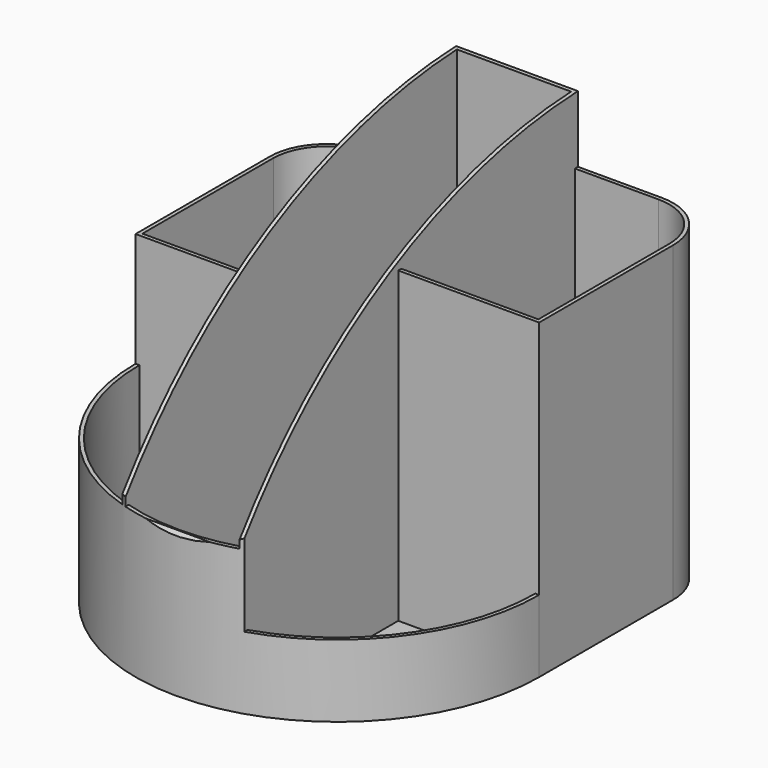
from build123d import *

# Parameters (mm, degrees)
PAD_DEPTH       = 99.5
POCKET_DEPTH    = 106.001
POCKET001_DEPTH = 105
POCKET002_DEPTH = 37
POCKET003_DEPTH = 37
SKETCH005_W     = 30
SKETCH005_H     = 16.444138
POCKET004_DEPTH = 149


with BuildPart() as part:
    # Sketch → Pad (new body)
    with BuildSketch(Plane.XY):
        with BuildLine():
            Line((-53, 15), (-53, -29))
            ThreePointArc((-53, -29), (0, -82), (53, -29))
            Line((53, 15), (53, -29))
            ThreePointArc((53, 15), (48.606602, 25.606602), (38, 30))
            Line((-38, 30), (38, 30))
            ThreePointArc((-38, 30), (-48.606602, 25.606602), (-53, 15))
        make_face()
    extrude(amount=PAD_DEPTH)

    # Sketch001 (on DatumPlane) → Pocket (cut, through all)
    with BuildSketch(Plane.YZ.offset(53)):
        with BuildLine():
            ThreePointArc((30, 99.5), (-33.496233, 81.683249), (-82, 37))
            Line((-82, 37), (-89.555687, 37))
            Line((-89.555687, 106.401093), (-89.555687, 37))
            Line((30, 106.401093), (-89.555687, 106.401093))
            Line((30, 99.5), (30, 106.401093))
        make_face()
    extrude(amount=-POCKET_DEPTH, mode=Mode.SUBTRACT)

    # Sketch002 (on DatumPlane) → Pocket001 (cut)
    with BuildSketch(Plane.XY.offset(106)):
        with BuildLine():
            Line((-52, -29), (-16, -29))
            Line((-16, -29), (-16, -78.477268))
            ThreePointArc((-52, -29), (-42.047592, -59.594117), (-16, -78.477268))
        make_face()
        with BuildLine():
            Line((-15, 29), (15, 29))
            Line((15, 29), (15, -78.789557))
            ThreePointArc((-15, -78.789557), (0, -81), (15, -78.789557))
            Line((-15, 29), (-15, -78.789557))
        make_face()
        with BuildLine():
            Line((52, -29), (16, -29))
            Line((16, -29), (16, -78.477268))
            ThreePointArc((16, -78.477268), (42.047592, -59.594117), (52, -29))
        make_face()
        with BuildLine():
            Line((-16, 29), (-38.000001, 29))
            ThreePointArc((-38.000001, 29), (-47.850607, 24.850607), (-52, 15))
            Line((-52, 15), (-52, -28))
            Line((-52, -28), (-16, -28))
            Line((-16, -28), (-16, 29))
        make_face()
        with BuildLine():
            Line((16, 29), (38, 29))
            ThreePointArc((52, 15), (47.899495, 24.899495), (38, 29))
            Line((52, 15), (52, -28))
            Line((52, -28), (16, -28))
            Line((16, -28), (16, 29))
        make_face()
    extrude(amount=-POCKET001_DEPTH, mode=Mode.SUBTRACT)

    # Sketch003 (on DatumPlane) → Pocket002 (cut)
    with BuildSketch(Plane.YZ.offset(53)):
        Polygon((-29, 19), (-81, 19), (-81, 99.5), (-29.5, 99.5), (30, 99.5), (30, 82), (-29, 82), align=None)
    extrude(amount=-POCKET002_DEPTH, mode=Mode.SUBTRACT)

    # Sketch004 (on DatumPlane) → Pocket003 (cut)
    with BuildSketch(Plane(origin=(-53, 0, 0), x_dir=(0, -1, 0), z_dir=(-1, 0, 0))):
        Polygon((81, 38), (29, 38), (29, 68), (-30, 68), (-30, 99.5), (81, 99.5), align=None)
    extrude(amount=-POCKET003_DEPTH, mode=Mode.SUBTRACT)

    # Sketch005 (on DatumPlane) → Pocket004 (cut)
    with BuildSketch(Plane(origin=(-53, -120, 0), x_dir=(1, 0, 0), z_dir=(0, -1, 0))):
        with Locations((53, 46.222069)):
            Rectangle(SKETCH005_W, SKETCH005_H)
    extrude(amount=-POCKET004_DEPTH, mode=Mode.SUBTRACT)


solid = part.part
